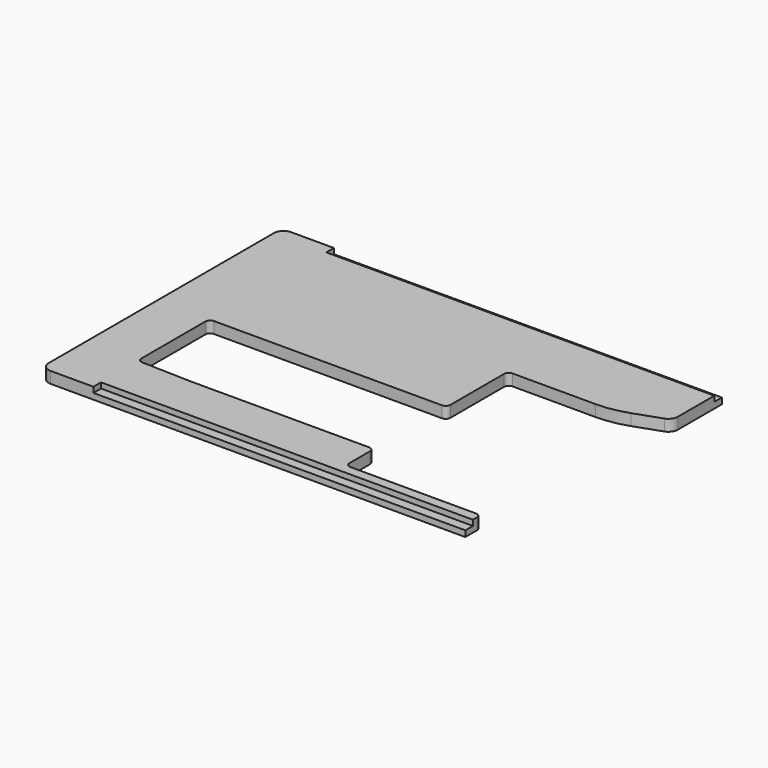
from build123d import *

# Parameters (mm, degrees)
F0_W     = 463
F0_H     = 316
F1_DEPTH = 12
F3_DEPTH = 12.001
F4_W     = 408
F4_H     = 10
F4_W_2   = 391
F5_DEPTH = 5.75
F6_R     = 10
F7_R     = 5


with BuildPart() as f1:
    # F0 (on Top) → F1 (new body)
    with BuildSketch(Plane.XY):
        with Locations((231.5, 158)):
            Rectangle(F0_W, F0_H)
    extrude(amount=F1_DEPTH)

    # F2 (on face) → F3 (cut, through all)
    with BuildSketch(Plane.XY.offset(12)):
        with BuildLine():
            Line((395.9189609317, 233.4), (309, 233.4))
            ThreePointArc((309, 233.4), (305.4644660941, 231.9355339059), (304, 228.4))
            Line((304, 228.4), (304, 158))
            ThreePointArc((304, 158), (302.5355339059, 154.4644660941), (299, 153))
            Line((299, 153), (59.3, 153))
            ThreePointArc((59.3, 153), (55.7644660941, 151.5355339059), (54.3, 148))
            Line((54.3, 148), (54.3, 63.8530360718))
            ThreePointArc((54.3, 63.8530360718), (55.7121305741, 60.3706241228), (59.150877193, 58.8552603277))
            Line((59.150877193, 58.8552603277), (111.2746434829, 57.3))
            Line((111.2746434829, 57.3), (299, 57.3))
            ThreePointArc((299, 57.3), (302.5355339059, 55.8355339059), (304, 52.3))
            Line((304, 52.3), (304, 25.3))
            ThreePointArc((304, 25.3), (305.4644660941, 21.7644660941), (309, 20.3))
            Line((309, 20.3), (446, 20.3))
            Line((446, 20.3), (446, 0))
            Line((446, 0), (463, 0))
            Line((463, 0), (463, 20.3))
            Line((463, 20.3), (463, 233.4))
            Line((463, 233.4), (463, 251))
            Line((463, 251), (429.1265081015, 239.0747180711))
            ThreePointArc((429.1265081015, 239.0747180711), (412.7634230352, 234.8288881241), (395.9189609317, 233.4))
        make_face()
    extrude(amount=-F3_DEPTH, mode=Mode.SUBTRACT)

    # F4 (on face) → F5 (cut)
    with BuildSketch(Plane.XY.offset(12)):
        with Locations((259, 311)):
            Rectangle(F4_W, F4_H)
        with Locations((250.5, 5)):
            Rectangle(F4_W_2, F4_H)
    extrude(amount=-F5_DEPTH, mode=Mode.SUBTRACT)

    # F6
    f6_edges = [f1.edges().sort_by_distance(p)[0] for p in [
        (0, 316, 6),
        (0, 0, 6),
        (463, 251, 6),
    ]]
    fillet(f6_edges, radius=F6_R)

    # F7
    f7_edges = [f1.edges().sort_by_distance(p)[0] for p in [
        (446, 20.3, 6),
    ]]
    fillet(f7_edges, radius=F7_R)


solid = f1.part
